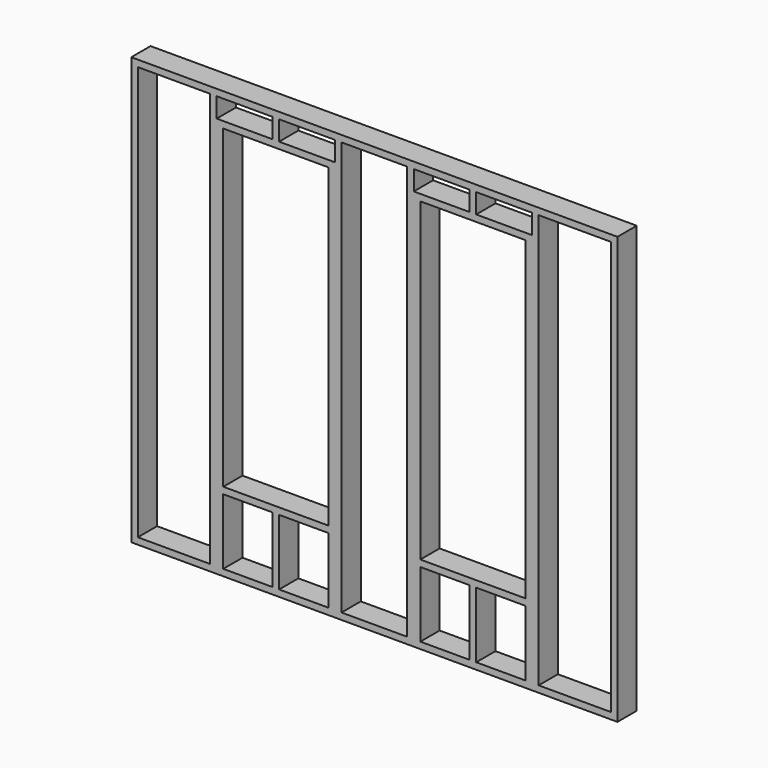
from build123d import *

# Parameters (mm, degrees)
F0_W     = 2819.4
F0_H     = 2476.5
F1_DEPTH = 139.7
F2_W     = 609.6
F2_H     = 1828.8
F3_DEPTH = 139.701
F4_W     = 419.1
F4_H     = 2400.3
F4_W_2   = 381
F4_W_3   = 323.85
F4_H_2   = 114.3
F4_W_4   = 285.75
F4_H_3   = 381
F5_DEPTH = 139.701


with BuildPart() as f1:
    # F0 (on Front) → F1 (new body)
    with BuildSketch(Plane.XZ):
        with Locations((1409.7, 1238.25)):
            Rectangle(F0_W, F0_H)
    extrude(amount=F1_DEPTH)

    # F2 (on face) → F3 (cut, through all)
    with BuildSketch(Plane.XZ.offset(139.7)):
        with Locations((838.2, 1371.6)):
            Rectangle(F2_W, F2_H)
        with Locations((1981.2, 1371.6)):
            Rectangle(F2_W, F2_H)
    extrude(amount=-F3_DEPTH, mode=Mode.SUBTRACT)

    # F4 (on face) → F5 (cut, through all)
    with BuildSketch(Plane.XZ.offset(139.7)):
        with Locations((2571.75, 1238.25)):
            Rectangle(F4_W, F4_H)
        with Locations((1409.7, 1238.25)):
            Rectangle(F4_W_2, F4_H)
        with Locations((247.65, 1238.25)):
            Rectangle(F4_W, F4_H)
        with Locations((657.225, 2381.25)):
            Rectangle(F4_W_3, F4_H_2)
        with Locations((1019.175, 2381.25)):
            Rectangle(F4_W_3, F4_H_2)
        with Locations((676.275, 228.6)):
            Rectangle(F4_W_4, F4_H_3)
        with Locations((1000.125, 228.6)):
            Rectangle(F4_W_4, F4_H_3)
        with Locations((1800.225, 2381.25)):
            Rectangle(F4_W_3, F4_H_2)
        with Locations((2162.175, 2381.25)):
            Rectangle(F4_W_3, F4_H_2)
        with Locations((1819.275, 228.6)):
            Rectangle(F4_W_4, F4_H_3)
        with Locations((2143.125, 228.6)):
            Rectangle(F4_W_4, F4_H_3)
    extrude(amount=-F5_DEPTH, mode=Mode.SUBTRACT)


solid = f1.part
